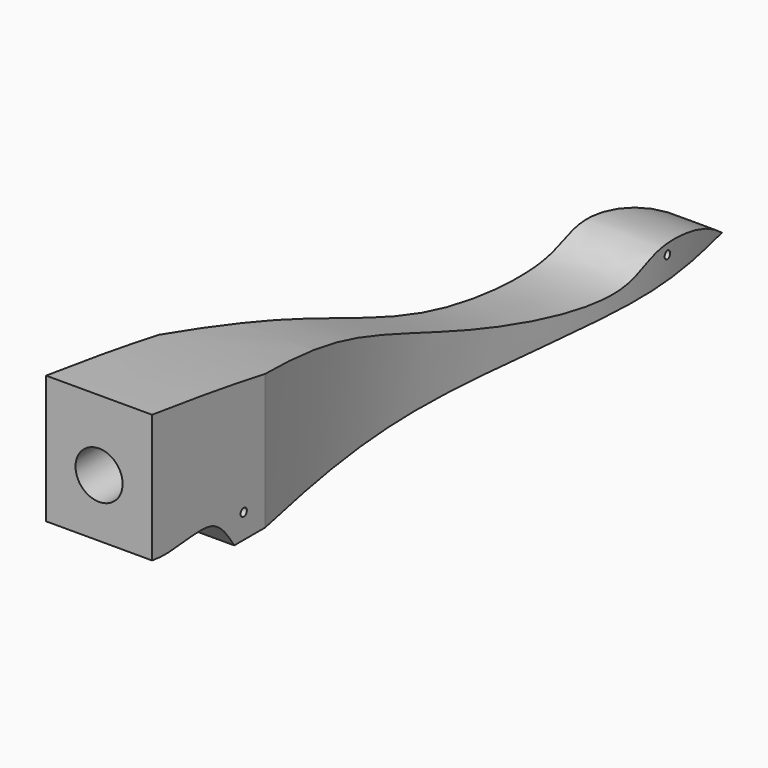
from build123d import *

# Parameters (mm, degrees)
F1_DEPTH = 21.43125
F2_R     = 9.525
F3_DEPTH = 50.8
F4_R     = 1.5875
F6_DEPTH = 42.8635
F7_DEPTH = 63.4134694142
F8_DEPTH = 42.8635001
F9_DEPTH = 42.8635001


with BuildPart() as f1:
    # F0 (on Right) → F1 (new body, symmetric)
    with BuildSketch(Plane.YZ):
        Polygon((-152.4, 69.85), (-152.4, 0), (152.4, 0), (152.4, 19.05), align=None)
    extrude(amount=F1_DEPTH, both=True)

    # F2 (on face) → F3 (cut)
    with BuildSketch(Plane.XZ.offset(152.4)):
        with Locations((0, 34.925)):
            Circle(F2_R)
    extrude(amount=-F3_DEPTH, mode=Mode.SUBTRACT)

    # F4 (on face) → F6 (cut, through all)
    with BuildSketch(Plane.YZ.offset(21.43125)):
        with Locations((-106.0597673059, 9.8616983742)):
            Circle(F4_R)
        with Locations((116.1075383425, 9.1174189001)):
            Circle(F4_R)
        with BuildLine():
            Line((-152.4, 69.85), (-152.4, 63.4124693142))
            add(Edge.make_bspline(
                [(-152.4, 63.4124693142), (-140.3470349673, 61.7861947864), (-112.4716388906, 58.1089697392), (-41.9671579921, 45.2289528531), (21.730693014, 15.3220693615), (94.082386935, 1.9101160851), (110.7917005476, 17.5281988656), (140.2180244224, 9.525), (152.4, 0)],
                knots=[0, 0, 0, 0, 0.1474993379, 0.3441234589, 0.5501232287, 0.742802432, 0.8472081521, 1, 1, 1, 1], degree=3))
            Line((152.4, 0), (152.4, 19.05))
            Line((152.4, 19.05), (-152.4, 69.85))
        make_face()
    extrude(amount=-F6_DEPTH, mode=Mode.SUBTRACT)

    # F5 (on face) → F7 (cut, through all)
    with BuildSketch(Plane(origin=(0, 0, 0), x_dir=(1, 0, 0), z_dir=(0, 0, -1))):
        with BuildLine():
            add(Edge.make_bspline(
                [(21.43125, 95.25), (14.8559240611, 64.4513498529), (1.560289343, 2.1749538276), (21.1937212181, -98.8837359072), (11.9525595695, -136.5598896787), (8.0673163757, -152.4)],
                knots=[0, 0, 0, 0, 0.3618657615, 0.7317104925, 1, 1, 1, 1], degree=3))
            Line((8.0673163757, -152.4), (21.43125, -152.4))
            Line((21.43125, -152.4), (21.43125, 95.25))
        make_face()
        with BuildLine():
            add(Edge.make_bspline(
                [(-21.43125, 95.25), (-14.8559240611, 64.4513498529), (-1.560289343, 2.1749538276), (-21.1937212181, -98.8837359072), (-11.9525595695, -136.5598896787), (-8.0673163757, -152.4)],
                knots=[0, 0, 0, 0, 0.3618657615, 0.7317104925, 1, 1, 1, 1], degree=3))
            Line((-21.43125, 95.25), (-21.43125, -152.4))
            Line((-21.43125, -152.4), (-8.0673163757, -152.4))
        make_face()
    extrude(amount=-F7_DEPTH, mode=Mode.SUBTRACT)

    # F4 (on face) → F8 (cut, through all)
    with BuildSketch(Plane.YZ.offset(21.43125)):
        with BuildLine():
            add(Edge.make_bspline(
                [(-152.4, 11.5290285958), (-141.2287506061, 9.525), (-121.4122565006, 17.0300769596), (-114.0199033563, 4.6339851154), (-110.8501440775, 0)],
                knots=[0, 0, 0, 0, 0.5734675537, 1, 1, 1, 1], degree=3))
            Line((-152.4, 11.5290285958), (-152.4, 0))
            Line((-152.4, 0), (-110.8501440775, 0))
        make_face()
    extrude(amount=-F8_DEPTH, mode=Mode.SUBTRACT)

    # F4 (on face) → F9 (cut, through all)
    with BuildSketch(Plane.YZ.offset(21.43125)):
        with Locations((-106.0597673059, 9.8616983742)):
            Circle(F4_R)
        with Locations((116.1075383425, 9.1174189001)):
            Circle(F4_R)
    extrude(amount=-F9_DEPTH, mode=Mode.SUBTRACT)


solid = f1.part
